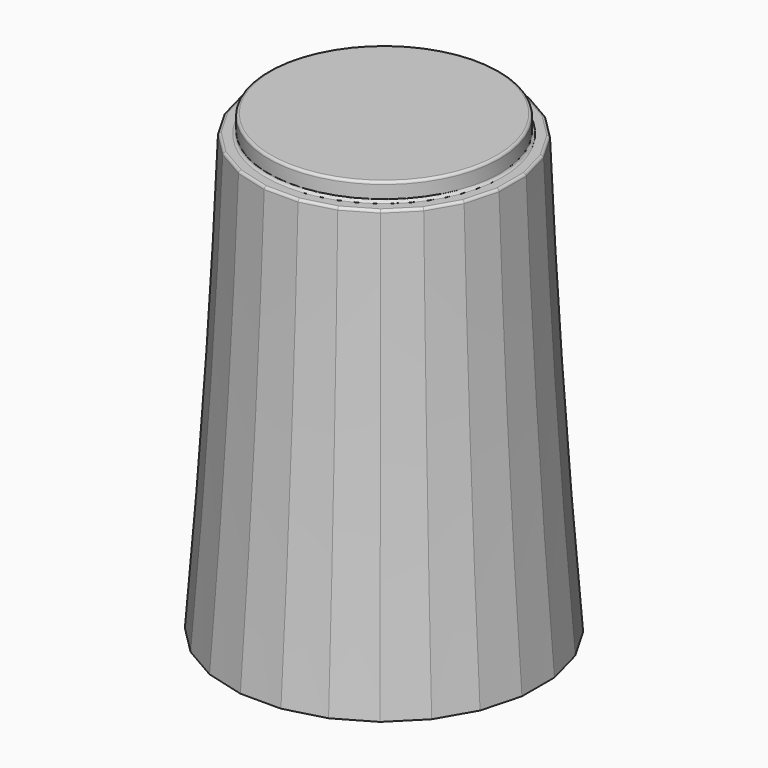
from build123d import *

# Parameters (mm, degrees)
SKETCH393_R     = 4.5
PAD071_DEPTH    = 0.7
SKETCH392_R     = 5
POCKET067_DEPTH = 1
SKETCH381_R     = 4.65
POCKET068_DEPTH = 1
POCKET063_DEPTH = 8
CHAMFER055_SIZE = 1.4
CHAMFER056_SIZE = 0.3
FILLET030_R     = 0.1


with BuildPart() as part:
    # Sketch394 → AdditiveLoft042 section 0
    with BuildSketch(Plane.XY):
        Polygon((-0.789915, 6), (-2.315914, 5.59111), (-3.684086, 4.801195), (-4.801195, 3.684086), (-5.59111, 2.315914), (-6, 0.789915), (-6, -0.789915), (-5.59111, -2.315914), (-4.801195, -3.684086), (-3.684086, -4.801195), (-2.315914, -5.59111), (-0.789915, -6), (0.789915, -6), (2.315914, -5.59111), (3.684086, -4.801195), (4.801195, -3.684086), (5.59111, -2.315914), (6, -0.789915), (6, 0.789915), (5.59111, 2.315914), (4.801195, 3.684086), (3.684086, 4.801195), (2.315914, 5.59111), (0.789915, 6), align=None)
    # Sketch383 → AdditiveLoft042 section 1
    with BuildSketch(Plane.XY.offset(7)):
        Polygon((-0.724089, 5.5), (-2.122921, 5.125184), (-3.377079, 4.401095), (-4.401095, 3.377079), (-5.125184, 2.122921), (-5.5, 0.724089), (-5.5, -0.724089), (-5.125184, -2.122921), (-4.401095, -3.377079), (-3.377079, -4.401095), (-2.122921, -5.125184), (-0.724089, -5.5), (0.724089, -5.5), (2.122921, -5.125184), (3.377079, -4.401095), (4.401095, -3.377079), (5.125184, -2.122921), (5.5, -0.724089), (5.5, 0.724089), (5.125184, 2.122921), (4.401095, 3.377079), (3.377079, 4.401095), (2.122921, 5.125184), (0.724089, 5.5), align=None)
    # Sketch384 → AdditiveLoft042 section 2
    with BuildSketch(Plane.XY.offset(17)):
        Polygon((-4.659258, 1.929928), (-5, 0.658262), (-5, -0.658262), (-4.659258, -1.929928), (-4.000996, -3.070072), (-3.070072, -4.000996), (-1.929928, -4.659258), (-0.658262, -5), (0.658262, -5), (1.929928, -4.659258), (3.070072, -4.000996), (4.000996, -3.070072), (4.659258, -1.929928), (5, -0.658262), (5, 0.658262), (4.659258, 1.929928), (4.000996, 3.070072), (3.070072, 4.000996), (1.929928, 4.659258), (0.658262, 5), (-0.658262, 5), (-1.929928, 4.659258), (-3.070072, 4.000996), (-4.000996, 3.070072), align=None)
    loft()

    # Sketch393 (on Face3 of AdditiveLoft042) → Pad071 (new body)
    with BuildSketch(Plane.XY.offset(17)):
        Circle(SKETCH393_R)
    extrude(amount=PAD071_DEPTH)

    # Sketch392 (on Face1 of Pad071) → Pocket067 (cut)
    with BuildSketch(Plane(origin=(0, 0, 0), x_dir=(1, 0, 0), z_dir=(0, 0, -1))):
        Circle(SKETCH392_R)
    extrude(amount=-POCKET067_DEPTH, mode=Mode.SUBTRACT)

    # Sketch381 (on Face28 of Pocket067) → Pocket068 (cut)
    with BuildSketch(Plane(origin=(0, 0, 1), x_dir=(1, 0, 0), z_dir=(0, 0, -1))):
        Circle(SKETCH381_R)
    extrude(amount=-POCKET068_DEPTH, mode=Mode.SUBTRACT)

    # Sketch382 (on Face32 of Pocket068) → Pocket063 (cut)
    with BuildSketch(Plane(origin=(0, 0, 2), x_dir=(1, 0, 0), z_dir=(0, 0, -1))):
        with BuildLine():
            ThreePointArc((-1.741757, 2.442598), (0, -3), (1.741757, 2.442598))
            Line((-1.741757, 2.442598), (1.741757, 2.442598))
        make_face()
    extrude(amount=-POCKET063_DEPTH, mode=Mode.SUBTRACT)

    # Chamfer055
    chamfer055_edges = [part.edges().sort_by_distance(p)[0] for p in [
        (0, 3, 2),
        (0, -2.442598, 2),
    ]]
    chamfer(chamfer055_edges, length=CHAMFER055_SIZE)

    # Chamfer056
    chamfer056_edges = [part.edges().sort_by_distance(p)[0] for p in [
        (-4.65, 0, 1),
    ]]
    chamfer(chamfer056_edges, length=CHAMFER056_SIZE)

    # Fillet030
    fillet030_edges = [part.edges().sort_by_distance(p)[0] for p in [
        (-4.5, 0, 17.7),
        (-4.829629, 1.294095, 17),
        (-4.330127, 2.5, 17),
        (-5, 0, 17),
        (-3.535534, 3.535534, 17),
        (-4.829629, -1.294095, 17),
        (-2.5, 4.330127, 17),
        (-4.330127, -2.5, 17),
        (-1.294095, 4.829629, 17),
        (-3.535534, -3.535534, 17),
        (0, 5, 17),
        (-2.5, -4.330127, 17),
        (1.294095, 4.829629, 17),
        (-1.294095, -4.829629, 17),
        (2.5, 4.330127, 17),
        (0, -5, 17),
        (3.535534, 3.535534, 17),
        (1.294095, -4.829629, 17),
        (4.330127, 2.5, 17),
        (2.5, -4.330127, 17),
        (4.829629, 1.294095, 17),
        (3.535534, -3.535534, 17),
        (5, 0, 17),
        (4.330127, -2.5, 17),
        (4.829629, -1.294095, 17),
        (-4.5, 0, 17),
    ]]
    fillet(fillet030_edges, radius=FILLET030_R)


solid = part.part
